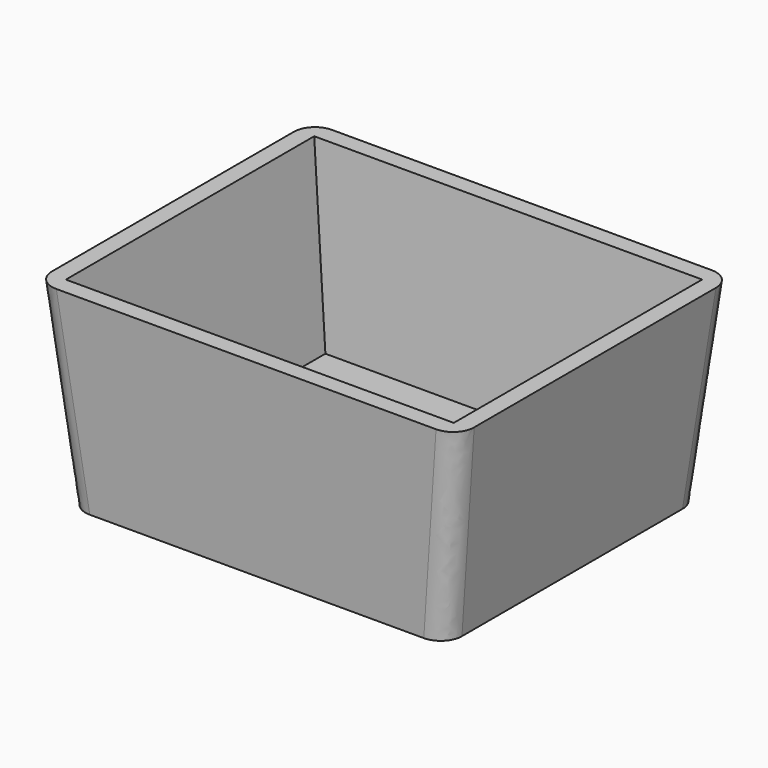
from build123d import *

# Parameters (mm, degrees)
F2_W = 17.7
F2_H = 14.95
F4_W = 19.85
F4_H = 16.2
F6_T = -0.8
F7_R = 1


with BuildPart() as f5:
    # F2 (on Top) → F5 section 0
    with BuildSketch(Plane.XY):
        with Locations((-241.6565716267, 110.767347253)):
            Rectangle(F2_W, F2_H)
    # F4 (on offset) → F5 section 1
    with BuildSketch(Plane.XY.offset(9.25)):
        with Locations((-241.6565716267, 110.767347253)):
            Rectangle(F4_W, F4_H)
    loft()

    # F6
    f6_openings = [f5.faces().sort_by_distance(p)[0] for p in [
        (-241.656572, 110.767347, 9.25),
    ]]
    offset(amount=F6_T, openings=f6_openings)

    # F7
    f7_edges = [f5.edges().sort_by_distance(p)[0] for p in [
        (-251.044072, 102.979847, 4.625),
        (-232.269072, 102.979847, 4.625),
        (-232.269072, 118.554847, 4.625),
        (-251.044072, 118.554847, 4.625),
    ]]
    fillet(f7_edges, radius=F7_R)


solid = f5.part
